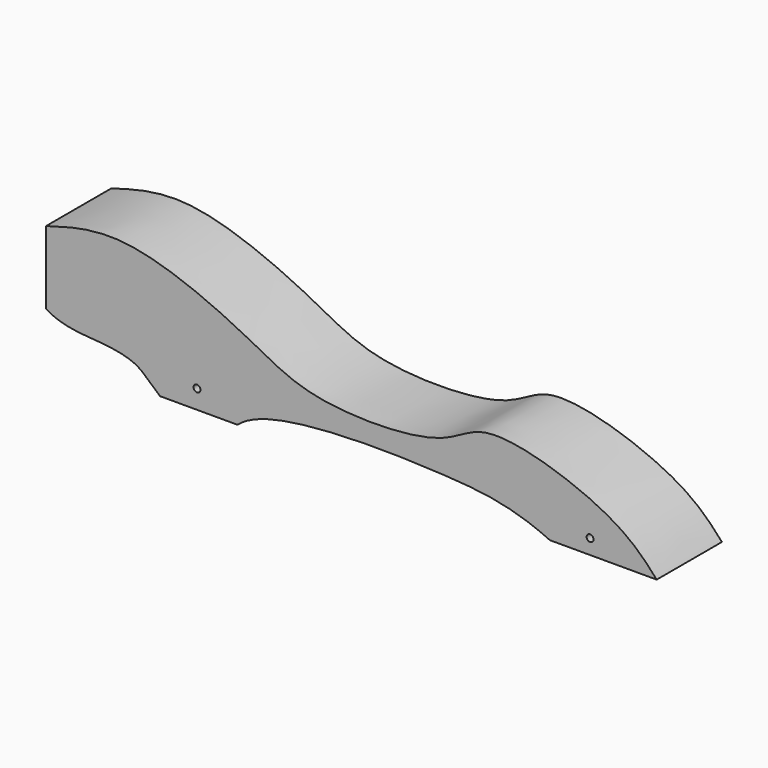
from build123d import *

# Parameters (mm, degrees)
F1_DEPTH = 42.5
F2_R     = 10
F3_DEPTH = 54
F5_DEPTH = 71
F6_DEPTH = 3.5
F7_R     = 1.5
F8_DEPTH = 40
F9_DEPTH = 3.5


with BuildPart() as f1:
    # F0 (on Front) → F1 (new body)
    with BuildSketch(Plane.XZ):
        Polygon((0, 73), (0, 0), (304.8, 0), (304.8, 19), align=None)
    extrude(amount=-F1_DEPTH)

    # F2 (on face) → F3 (cut)
    with BuildSketch(Plane(origin=(0, 0, 0), x_dir=(0, -1, 0), z_dir=(-1, 0, 0))):
        with Locations((-21.25, 32)):
            Circle(F2_R)
    extrude(amount=-F3_DEPTH, mode=Mode.SUBTRACT)

    # F4 (on face) → F5 (cut)
    with BuildSketch(Plane.XZ):
        with BuildLine():
            Line((83.3586742023, 0), (219.3521244357, 0))
            add(Edge.make_bspline(
                [(83.3586742023, 0), (90.6284130764, 6.524133627), (122.5811634364, 11.7924689208), (174.8203460789, 10.455456109), (202.6968670247, 7.7462632834), (219.3521244357, 0)],
                knots=[0, 0, 0, 0, 0.3054899517, 0.6640456684, 1, 1, 1, 1], degree=3))
        make_face()
        with BuildLine():
            add(Edge.make_bspline(
                [(0, 49.0894668328), (8.6095605658, 51.5584975857), (33.86733613, 59.7098908364), (89.031339825, 35.2634957816), (114.7401688668, 18.6694690602), (174.1105616361, 19.1823181446), (190.4526381051, 38.8804180807), (247.3070109423, 19.8321439497), (260.2939914391, 6.3267552455), (265.8403399672, 0)],
                knots=[0, 0, 0, 0, 0.1315072819, 0.3042559149, 0.4367018564, 0.6031353109, 0.7130988721, 0.879970219, 1, 1, 1, 1], degree=3))
            Line((265.8403399672, 0), (304.8, 0))
            Line((304.8, 0), (304.8, 19))
            Line((304.8, 19), (0, 73))
            Line((0, 73), (0, 49.0894668328))
        make_face()
        with BuildLine():
            add(Edge.make_bspline(
                [(49.6266558766, 0), (43.7264144421, 5.229760427), (39.3508640364, 10.0671625622), (22.1243426126, 12.734908698), (7.3135697633, 12.8979445442), (0, 17.2612052411)],
                knots=[0, 0, 0, 0, 0.3068934716, 0.616946611, 1, 1, 1, 1], degree=3))
            Line((0, 17.2612052411), (0, 0))
            Line((0, 0), (42.9969504476, 0))
            Line((42.9969504476, 0), (49.6266558766, 0))
        make_face()
    extrude(amount=-F5_DEPTH, mode=Mode.SUBTRACT)

    # F6 (cut): a face of the model
    f6_faces = [f1.faces().sort_by_distance(p)[0] for p in [
        (105.3907227031, 42.5, 22.0614385487),
    ]]
    extrude(f6_faces, amount=-F6_DEPTH, mode=Mode.SUBTRACT)

    # F7 (on face) → F8 (cut)
    with BuildSketch(Plane.XZ):
        with Locations((65.7182261348, 8.17988161)):
            Circle(F7_R)
        with Locations((236.8372421349, 6.4802453648)):
            Circle(F7_R)
    extrude(amount=-F8_DEPTH, mode=Mode.SUBTRACT)

    # F9 (cut): a face of the model
    f9_faces = [f1.faces().sort_by_distance(p)[0] for p in [
        (105.2828808341, 0, 22.090891636),
    ]]
    extrude(f9_faces, amount=-F9_DEPTH, mode=Mode.SUBTRACT)


solid = f1.part
